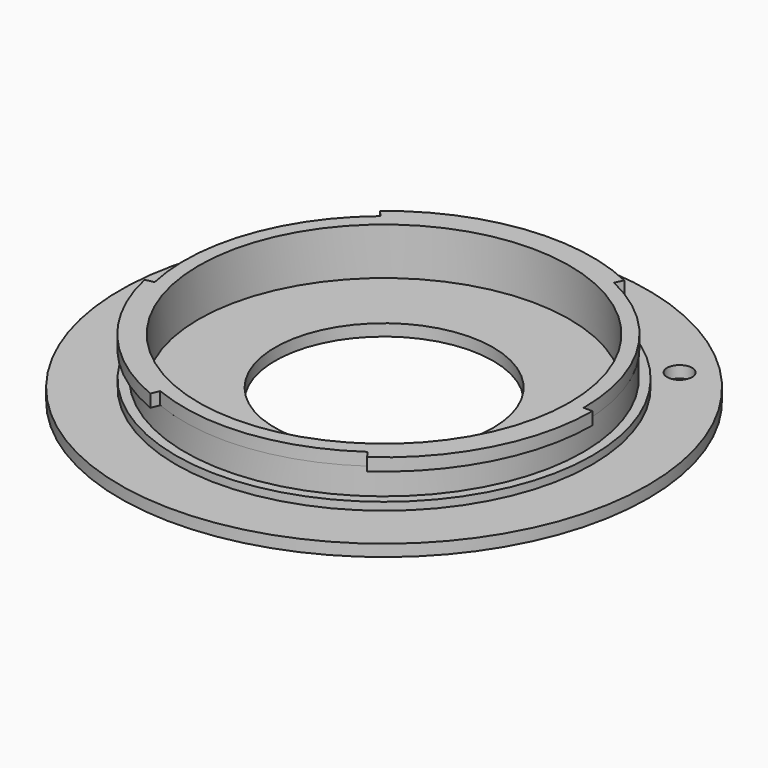
from build123d import *

# Parameters (mm, degrees)
SKETCH048_R          = 23.6
PAD003_DEPTH         = 1.6
SKETCH049_R          = 23.6
PAD004_DEPTH         = 5
SKETCH050_R          = 26.5
SKETCH050_R_2        = 23.6
PAD005_DEPTH         = 1
SKETCH051_R          = 33.6
SKETCH051_R_2        = 13.875
PAD006_DEPTH         = 1.5
SKETCH052_R          = 1.6
POCKET001_DEPTH      = 7.501
POCKET001_DEPTH_BACK = 0.001


with BuildPart() as part:
    # Sketch048 → Pad003 (new body)
    with BuildSketch(Plane.XY):
        with BuildLine():
            ThreePointArc((11.420042, 23.942616), (-3.232792, 26.328981), (-16.873061, 20.46866))
            Line((-16.873061, 20.46866), (-16.156387, 19.599264))
            ThreePointArc((-16.156387, 19.599264), (-24.016172, 8.269431), (-24.797919, -5.497566))
            Line((-25.897919, -5.74143), (-24.797919, -5.497566))
            ThreePointArc((-25.897919, -5.74143), (-20.320637, -17.051039), (-10.151331, -24.507482))
            Line((-10.151331, -24.507482), (-9.720159, -23.46654))
            ThreePointArc((-9.720159, -23.46654), (2.765219, -25.249031), (14.568841, -20.806462))
            Line((15.215094, -21.729407), (14.568841, -20.806462))
            ThreePointArc((15.215094, -21.729407), (23.529477, -12.24867), (26.526707, 0))
            Line((26.526707, 0), (25.4, 0))
            ThreePointArc((25.4, 0), (21.481487, 13.553809), (10.934982, 22.925666))
            Line((11.420042, 23.942616), (10.934982, 22.925666))
        make_face()
        Circle(SKETCH048_R, mode=Mode.SUBTRACT)
    extrude(amount=-PAD003_DEPTH)

    # Sketch049 → Pad004 (join)
    with BuildSketch(Plane.XY):
        with BuildLine():
            ThreePointArc((11.324142, 23.958585), (10.481101, 24.339197), (9.62529, 24.690156))
            Line((9.62529, 24.690156), (9.2003, 23.6))
            ThreePointArc((9.2003, 23.6), (-10.018324, -23.264538), (10.824142, 22.900731))
            Line((11.324142, 23.958585), (10.824142, 22.900731))
        make_face()
        Circle(SKETCH049_R, mode=Mode.SUBTRACT)
    extrude(amount=-PAD004_DEPTH)

    # Sketch050 (on DatumPlane) → Pad005 (join)
    with BuildSketch(Plane.XY.offset(-5)):
        Circle(SKETCH050_R)
        Circle(SKETCH050_R_2, mode=Mode.SUBTRACT)
    extrude(amount=-PAD005_DEPTH)

    # Sketch051 (on DatumPlane) → Pad006 (join)
    with BuildSketch(Plane.XY.offset(-6)):
        Circle(SKETCH051_R)
        Circle(SKETCH051_R_2, mode=Mode.SUBTRACT)
    extrude(amount=-PAD006_DEPTH)

    # Sketch052 → Pocket001 (cut, two sides)
    with BuildSketch(Plane.XY) as pocket001_sk:
        with Locations((20.9, 20.9)):
            Circle(SKETCH052_R)
    extrude(amount=-POCKET001_DEPTH, mode=Mode.SUBTRACT)
    extrude(pocket001_sk.sketch, amount=POCKET001_DEPTH_BACK, mode=Mode.SUBTRACT)


with BuildPart() as part_1:
    # Body010 placement: moved
    add(part.part.moved(Location((0, -230, 0))))


solid = part_1.part
